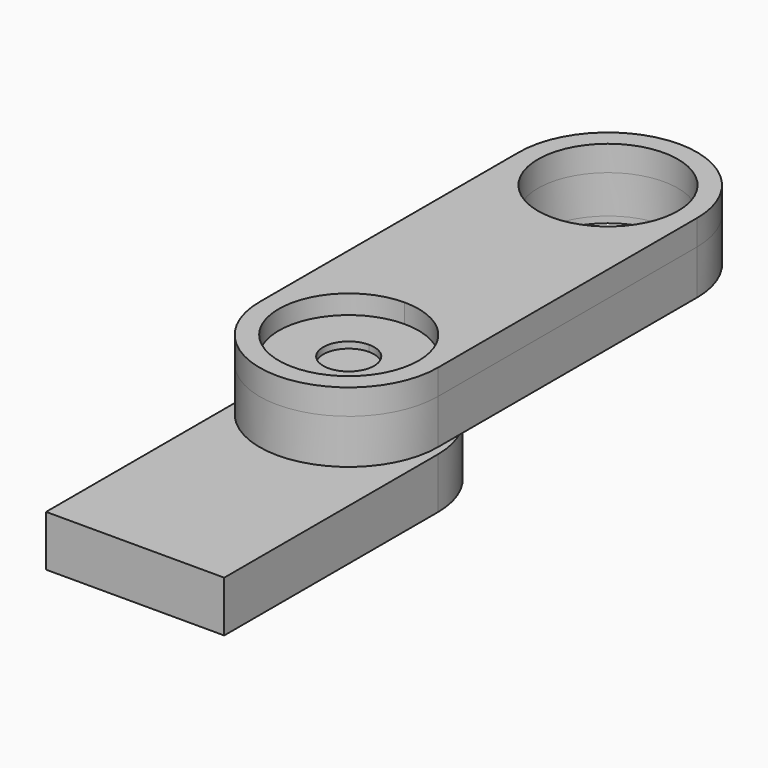
from build123d import *

# Parameters (mm, degrees)
F1_DEPTH      = 7
F2_DEPTH      = 10
F3_DEPTH      = 6
F3_DEPTH_BACK = 1
F4_START      = -1
F4_DEPTH      = 6.2
F6_START      = -2
F6_DEPTH      = 8
F7_START      = -2
F7_DEPTH      = 8
F8_DEPTH      = 6
F8_DEPTH_BACK = 1


with BuildPart() as f1:
    # F0 (on Top) → F1 (new body)
    with BuildSketch(Plane.XY):
        with BuildLine():
            ThreePointArc((0, 4), (2.8284271247, 2.8284271247), (4, 0))
            Line((4, 0), (4.5, 0))
            ThreePointArc((4.5, 0), (3.1819805153, 3.1819805153), (0, 4.5))
            Line((0, 4.5), (0, 4))
        make_face()
        with BuildLine():
            Line((4.5, 0), (4, 0))
            ThreePointArc((4, 0), (-2.8284271247, -2.8284271247), (0, 4))
            Line((0, 4), (0, 4.5))
            ThreePointArc((0, 4.5), (-3.1819805153, -3.1819805153), (4.5, 0))
        make_face()
        with BuildLine():
            ThreePointArc((0, 4.5), (3.1819805153, 3.1819805153), (4.5, 0))
            Line((4.5, 0), (11, 0))
            ThreePointArc((11, 0), (7.7781745931, 7.7781745931), (0, 11))
            Line((0, 11), (0, 4.5))
        make_face()
        with BuildLine():
            Line((11, 0), (4.5, 0))
            ThreePointArc((4.5, 0), (-3.1819805153, -3.1819805153), (0, 4.5))
            Line((0, 4.5), (0, 11))
            ThreePointArc((0, 11), (-7.7781745931, -7.7781745931), (11, 0))
        make_face()
    extrude(amount=F1_DEPTH)


with BuildPart() as f2:
    # F0 (on Top) → F2 (new body)
    with BuildSketch(Plane.XY):
        with BuildLine():
            ThreePointArc((0, 11), (7.7781745931, 7.7781745931), (11, 0))
            Line((11, 0), (14, 0))
            ThreePointArc((14, 0), (9.8994949366, 9.8994949366), (0, 14))
            Line((0, 14), (0, 11))
        make_face()
        with BuildLine():
            Line((14, 0), (11, 0))
            ThreePointArc((11, 0), (-7.7781745931, -7.7781745931), (0, 11))
            Line((0, 11), (0, 14))
            ThreePointArc((0, 14), (-9.8994949366, 9.8994949366), (-14, 0))
            ThreePointArc((-14, 0), (0, -14), (14, 0))
        make_face()
        with BuildLine():
            ThreePointArc((0, 14), (9.8994949366, 9.8994949366), (14, 0))
            Line((14, 0), (14, 50.9368740022))
            ThreePointArc((14, 50.9368740022), (9.8994949366, 41.0373790656), (0, 36.9368740022))
            Line((0, 36.9368740022), (0, 14))
        make_face()
        with BuildLine():
            ThreePointArc((-14, 0), (-9.8994949366, 9.8994949366), (0, 14))
            Line((0, 14), (0, 36.9368740022))
            ThreePointArc((0, 36.9368740022), (-9.8994949366, 41.0373790656), (-14, 50.9368740022))
            Line((-14, 50.9368740022), (-14, 0))
        make_face()
        with BuildLine():
            Line((11, 50.9368740022), (14, 50.9368740022))
            ThreePointArc((14, 50.9368740022), (0, 64.9368740022), (-14, 50.9368740022))
            Line((-14, 50.9368740022), (-11, 50.9368740022))
            ThreePointArc((-11, 50.9368740022), (0, 61.9368740022), (11, 50.9368740022))
        make_face()
        with BuildLine():
            ThreePointArc((0, 36.9368740022), (9.8994949366, 41.0373790656), (14, 50.9368740022))
            Line((14, 50.9368740022), (11, 50.9368740022))
            ThreePointArc((11, 50.9368740022), (7.7781745931, 43.1586994092), (0, 39.9368740022))
            Line((0, 39.9368740022), (0, 36.9368740022))
        make_face()
        with BuildLine():
            ThreePointArc((-14, 50.9368740022), (-9.8994949366, 41.0373790656), (0, 36.9368740022))
            Line((0, 36.9368740022), (0, 39.9368740022))
            ThreePointArc((0, 39.9368740022), (-7.7781745931, 43.1586994092), (-11, 50.9368740022))
            Line((-11, 50.9368740022), (-14, 50.9368740022))
        make_face()
    extrude(amount=F2_DEPTH)


with BuildPart() as f3:
    # F0 (on Top) → F3 (new body, two sides)
    with BuildSketch(Plane.XY) as f3_sk:
        with BuildLine():
            ThreePointArc((0, 4), (-2.8284271247, -2.8284271247), (4, 0))
            Line((4, 0), (0, 0))
            Line((0, 0), (0, 4))
        make_face()
        with BuildLine():
            Line((0, 0), (4, 0))
            ThreePointArc((4, 0), (2.8284271247, 2.8284271247), (0, 4))
            Line((0, 4), (0, 0))
        make_face()
    extrude(amount=F3_DEPTH)
    extrude(f3_sk.sketch, amount=-F3_DEPTH_BACK)

    # F0 (on Top) → F4 (join)
    with BuildSketch(Plane.XY.offset(F4_START)):
        with BuildLine():
            Line((4.5, 0), (4, 0))
            ThreePointArc((4, 0), (-2.8284271247, -2.8284271247), (0, 4))
            Line((0, 4), (0, 4.5))
            ThreePointArc((0, 4.5), (-3.1819805153, -3.1819805153), (4.5, 0))
        make_face()
        with BuildLine():
            ThreePointArc((0, 4), (2.8284271247, 2.8284271247), (4, 0))
            Line((4, 0), (4.5, 0))
            ThreePointArc((4.5, 0), (3.1819805153, 3.1819805153), (0, 4.5))
            Line((0, 4.5), (0, 4))
        make_face()
        with BuildLine():
            Line((0, 0), (4, 0))
            ThreePointArc((4, 0), (2.8284271247, 2.8284271247), (0, 4))
            Line((0, 4), (0, 0))
        make_face()
        with BuildLine():
            ThreePointArc((0, 4), (-2.8284271247, -2.8284271247), (4, 0))
            Line((4, 0), (0, 0))
            Line((0, 0), (0, 4))
        make_face()
    extrude(amount=-F4_DEPTH)

    # F5 (on Top) → F6 (join)
    with BuildSketch(Plane.XY.offset(F6_START)):
        with BuildLine():
            Line((-14, 0), (14, 0))
            ThreePointArc((14, 0), (0, 14), (-14, 0))
        make_face()
        with BuildLine():
            ThreePointArc((-14, 0), (0, -14), (14, 0))
            Line((14, 0), (-14, 0))
        make_face()
    extrude(amount=-F6_DEPTH)

    # F5 (on Top) → F7 (join)
    with BuildSketch(Plane.XY.offset(F7_START)):
        with BuildLine():
            Line((14, -41.9565960765), (14, 0))
            ThreePointArc((14, 0), (0, -14), (-14, 0))
            Line((-14, 0), (-14, -41.9565960765))
            Line((-14, -41.9565960765), (14, -41.9565960765))
        make_face()
    extrude(amount=-F7_DEPTH)


with BuildPart() as f8:
    # F0 (on Top) → F8 (new body, two sides)
    with BuildSketch(Plane.XY) as f8_sk:
        with BuildLine():
            Line((14, 0), (11, 0))
            ThreePointArc((11, 0), (-7.7781745931, -7.7781745931), (0, 11))
            Line((0, 11), (0, 14))
            ThreePointArc((0, 14), (-9.8994949366, 9.8994949366), (-14, 0))
            ThreePointArc((-14, 0), (0, -14), (14, 0))
        make_face()
        with BuildLine():
            ThreePointArc((0, 11), (7.7781745931, 7.7781745931), (11, 0))
            Line((11, 0), (14, 0))
            ThreePointArc((14, 0), (9.8994949366, 9.8994949366), (0, 14))
            Line((0, 14), (0, 11))
        make_face()
        with BuildLine():
            ThreePointArc((0, 14), (9.8994949366, 9.8994949366), (14, 0))
            Line((14, 0), (14, 50.9368740022))
            ThreePointArc((14, 50.9368740022), (9.8994949366, 41.0373790656), (0, 36.9368740022))
            Line((0, 36.9368740022), (0, 14))
        make_face()
        with BuildLine():
            ThreePointArc((-14, 0), (-9.8994949366, 9.8994949366), (0, 14))
            Line((0, 14), (0, 36.9368740022))
            ThreePointArc((0, 36.9368740022), (-9.8994949366, 41.0373790656), (-14, 50.9368740022))
            Line((-14, 50.9368740022), (-14, 0))
        make_face()
        with BuildLine():
            ThreePointArc((-14, 50.9368740022), (-9.8994949366, 41.0373790656), (0, 36.9368740022))
            Line((0, 36.9368740022), (0, 39.9368740022))
            ThreePointArc((0, 39.9368740022), (-7.7781745931, 43.1586994092), (-11, 50.9368740022))
            Line((-11, 50.9368740022), (-14, 50.9368740022))
        make_face()
        with BuildLine():
            Line((11, 50.9368740022), (14, 50.9368740022))
            ThreePointArc((14, 50.9368740022), (0, 64.9368740022), (-14, 50.9368740022))
            Line((-14, 50.9368740022), (-11, 50.9368740022))
            ThreePointArc((-11, 50.9368740022), (0, 61.9368740022), (11, 50.9368740022))
        make_face()
        with BuildLine():
            ThreePointArc((0, 36.9368740022), (9.8994949366, 41.0373790656), (14, 50.9368740022))
            Line((14, 50.9368740022), (11, 50.9368740022))
            ThreePointArc((11, 50.9368740022), (7.7781745931, 43.1586994092), (0, 39.9368740022))
            Line((0, 39.9368740022), (0, 36.9368740022))
        make_face()
    extrude(amount=F8_DEPTH)
    extrude(f8_sk.sketch, amount=-F8_DEPTH_BACK)


solid = Compound([f1.part, f2.part, f3.part, f8.part])
